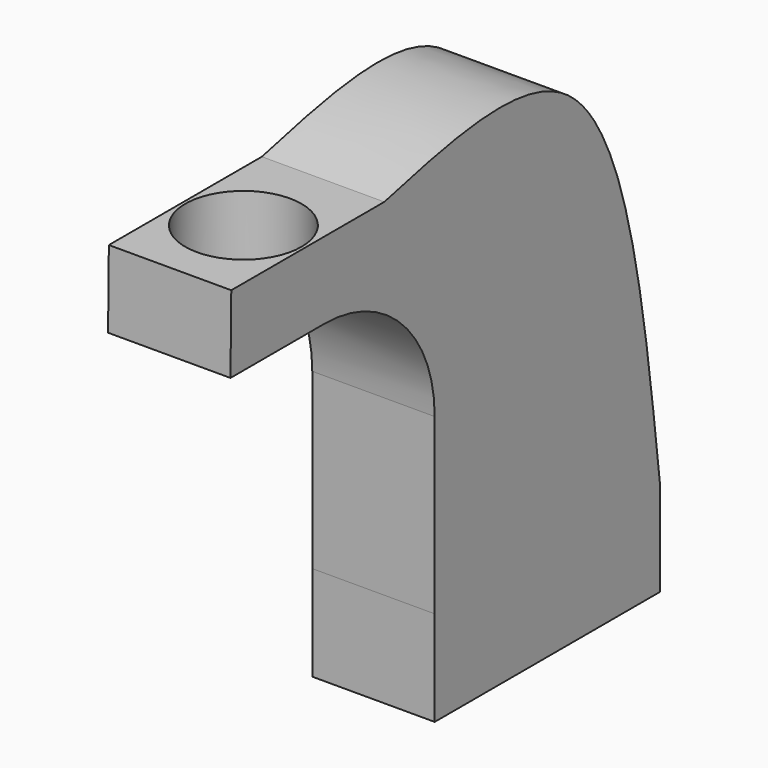
from build123d import *

# Parameters (mm, degrees)
F1_DEPTH = 25.4
F2_R     = 12.0698506183
F3_DEPTH = 100.2924419072


with BuildPart() as f1:
    # F0 (on Right) → F1 (new body)
    with BuildSketch(Plane.YZ):
        with BuildLine():
            Line((15.5100870162, 42.3829037865), (15.5131848078, 0))
            Line((15.5131848078, 0), (58.4104247391, 0))
            add(Edge.make_bspline(
                [(-13.0677023463, 80.5449451426), (5.0006115747, 84.8992469104), (47.0210201722, 95.025788891), (54.2753672082, 34.5002323585), (58.4104247391, 0)],
                knots=[0, 0, 0, 0, 0.4299890107, 1, 1, 1, 1], degree=3))
            ThreePointArc((-13.0677023463, 80.5449451426), (7.1384855982, 72.1769982749), (15.509386141, 51.9720337826))
            Line((15.509386141, 51.9720337826), (15.5100870162, 42.3829037865))
        make_face()
        with BuildLine():
            Line((58.4104247391, 0), (15.5131848078, 0))
            Line((15.5131848078, 0), (15.5100870162, 42.3829037865))
            Line((15.5100870162, 42.3829037865), (15.509386141, 51.9720337826))
            ThreePointArc((15.509386141, 51.9720337826), (7.1384855982, 72.1769982749), (-13.0677023463, 80.5449451426))
            Line((-13.0677023463, 80.5449451426), (-52.7544449859, 80.542044415))
            Line((-52.7544449859, 80.542044415), (-52.9602865575, 64.6042414004))
            Line((-52.9602865575, 64.6042414004), (-28.5797221689, 64.6060233903))
            ThreePointArc((-28.5797221689, 64.6060233903), (-8.3735342243, 56.2380765226), (-0.0026336815, 36.0331120303))
            Line((-0.0026336815, 36.0331120303), (0, 0))
            Line((0, 0), (0, -19.7412725538))
            Line((0, -19.7412725538), (58.4104247391, -19.7412725538))
            Line((58.4104247391, -19.7412725538), (58.4104247391, 0))
        make_face()
    extrude(amount=F1_DEPTH)

    # F2 (on face) → F3 (cut, through all)
    with BuildSketch(Plane(origin=(0, -0.0058871476, 80.5458998384), x_dir=(1, 0, 0), z_dir=(0, -7.30906e-05, 0.9999999973))):
        with Locations((12.6999961212, -33.7315686047)):
            Circle(F2_R)
    extrude(amount=-F3_DEPTH, mode=Mode.SUBTRACT)


solid = f1.part
